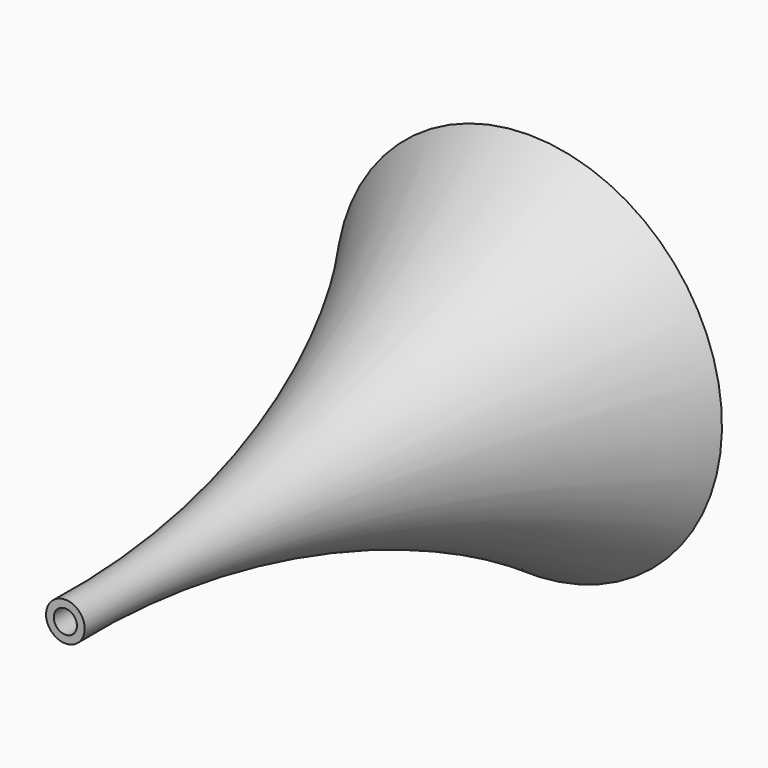
from build123d import *


with BuildPart() as f1:
    # F0 (on Right) → F1 (revolve)
    with BuildSketch(Plane.YZ):
        with BuildLine():
            Line((-75, 5), (-75, 2.999463))
            ThreePointArc((-75, 2.999463), (3.504045, 13.492794), (75, 47.570989))
            Line((75, 47.570989), (75, 50))
            ThreePointArc((75, 50), (3.570075, 15.599749), (-75, 5))
        make_face()
    revolve(axis=Axis((0, -8.248416, 0), (0, 1, 0)))


solid = f1.part
